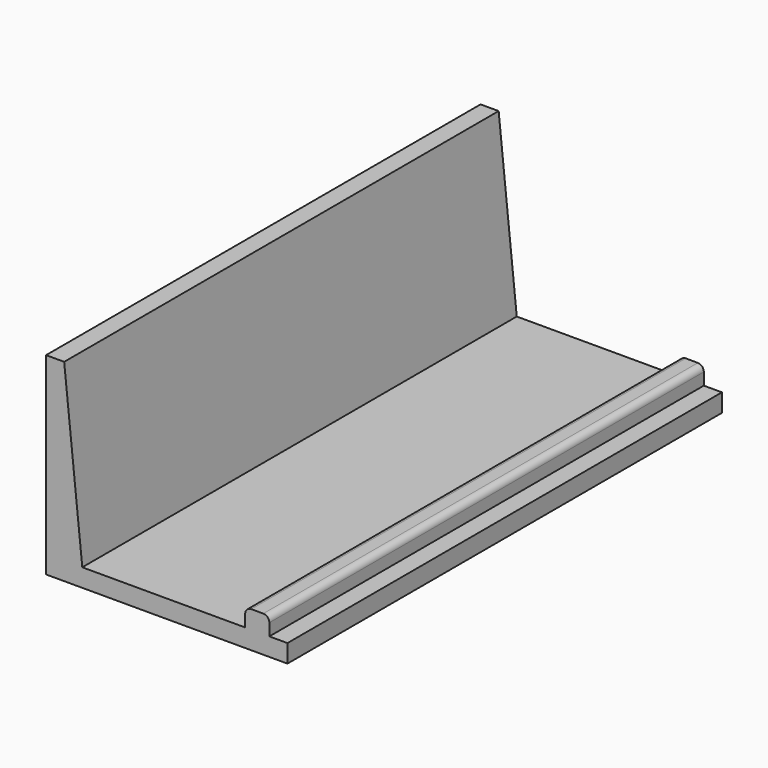
from build123d import *

# Parameters (mm, degrees)
F1_DEPTH = 45
F2_W     = 30
F2_H     = 13
F3_DEPTH = 3
F4_W     = 2.1
F4_H     = 6
F5_DEPTH = 11
F7_D     = 2.83
F7_DEPTH = 2
F7_TIP   = 0.8502177759
F8_W     = 2
F8_H     = 45
F9_DEPTH = 1.5
F10_R    = 0.5


with BuildPart() as f1:
    # F0 (on Front) → F1 (new body)
    with BuildSketch(Plane.XZ):
        Polygon((0, 16), (0, 0), (20, 0), (20, 1.5), (3, 1.5), (1.5, 16), align=None)
    extrude(amount=F1_DEPTH)

    # F2 (on face) → F3 (join)
    with BuildSketch(Plane(origin=(0, 0, 0), x_dir=(0, -1, 0), z_dir=(-1, 0, 0))):
        with Locations((22.5, 6.5)):
            Rectangle(F2_W, F2_H)
    extrude(amount=F3_DEPTH)

    # F4 (on face) → F5 (cut)
    with BuildSketch(Plane(origin=(0, 0, 0), x_dir=(1, 0, 0), z_dir=(0, 0, -1))):
        with Locations((-1.05, 33.5)):
            Rectangle(F4_W, F4_H)
        with Locations((-1.05, 22.5)):
            Rectangle(F4_W, F4_H)
        with Locations((-1.05, 11.5)):
            Rectangle(F4_W, F4_H)
    extrude(amount=-F5_DEPTH, mode=Mode.SUBTRACT)

    # F7
    with Locations(Plane(origin=(-3, 0, 0), x_dir=(0, -1, 0), z_dir=(-1, 0, 0))):
        with Locations((33.5, 7), (22.5, 7), (11.5, 7)):
            Hole(F7_D / 2, depth=F7_DEPTH)
            with Locations((0, 0, -(F7_DEPTH + F7_TIP / 2))):  # 118° drill point
                Cone(0, F7_D / 2, F7_TIP, mode=Mode.SUBTRACT)

    # F8 (on face) → F9 (join)
    with BuildSketch(Plane.XY.offset(1.5)):
        with Locations((17.5, -22.5)):
            Rectangle(F8_W, F8_H)
    extrude(amount=F9_DEPTH)

    # F10
    f10_edges = [f1.edges().sort_by_distance(p)[0] for p in [
        (18.5, -22.5, 3),
        (16.5, -22.5, 3),
    ]]
    fillet(f10_edges, radius=F10_R)


solid = f1.part
